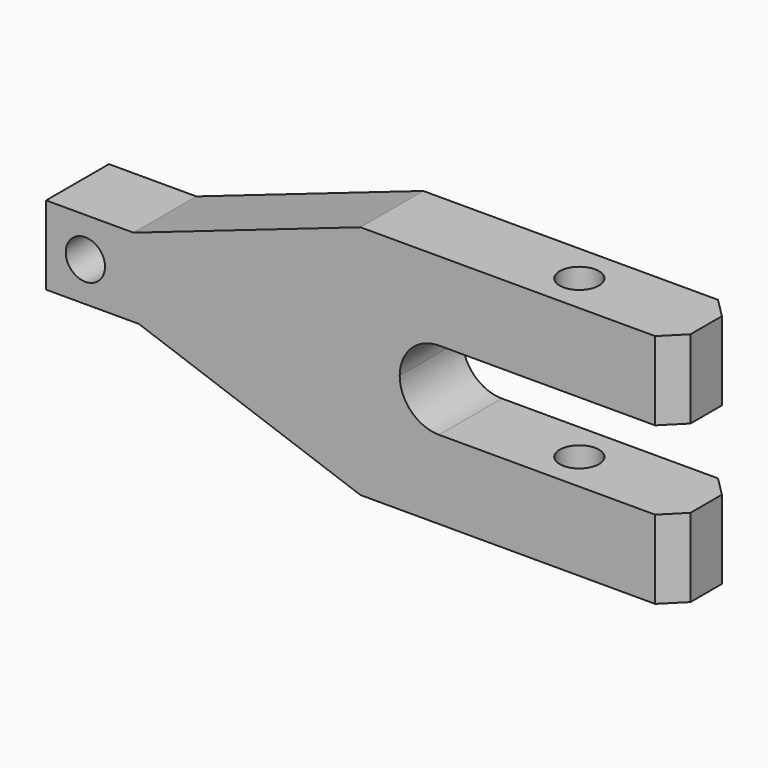
from build123d import *

# Parameters (mm, degrees)
F0_R     = 6.35
F2_DEPTH = 25.4
F3_SIZE2 = 6.35
F3_SIZE  = 6.35
F1_R     = 6.35
F4_DEPTH = 127


with BuildPart() as f2:
    # F0 (on Front) → F2 (new body)
    with BuildSketch(Plane.XZ):
        with BuildLine():
            Line((0, 25.4), (0, 0))
            Line((0, 0), (29.997984, 0))
            Line((29.997984, 0), (101.6, -25.4))
            Line((101.6, -25.4), (203.2, -25.4))
            Line((203.2, -25.4), (203.2, 0))
            Line((203.2, 0), (127, 0))
            ThreePointArc((127, 0), (118.019744, 3.719744), (114.3, 12.7))
            ThreePointArc((114.3, 12.7), (118.019744, 21.680256), (127, 25.4))
            Line((127, 25.4), (203.2, 25.4))
            Line((203.2, 25.4), (203.2, 50.8))
            Line((203.2, 50.8), (101.6, 50.8))
            Line((101.6, 50.8), (28.262794, 25.4))
            Line((28.262794, 25.4), (0, 25.4))
        make_face()
        with Locations((12.7, 12.7)):
            Circle(F0_R, mode=Mode.SUBTRACT)
    extrude(amount=F2_DEPTH)

    # F3
    f3_edges = [f2.edges().sort_by_distance(p)[0] for p in [
        (203.2, -25.4, 38.1),
        (203.2, -25.4, -12.7),
        (203.2, 0, -12.7),
        (203.2, 0, 38.1),
    ]]
    chamfer(f3_edges, length=F3_SIZE, length2=F3_SIZE2)

    # F1 (on Top) → F4 (cut, symmetric)
    with BuildSketch(Plane.XY):
        with Locations((162.2, -12.7)):
            Circle(F1_R)
    extrude(amount=F4_DEPTH, both=True, mode=Mode.SUBTRACT)


solid = f2.part
